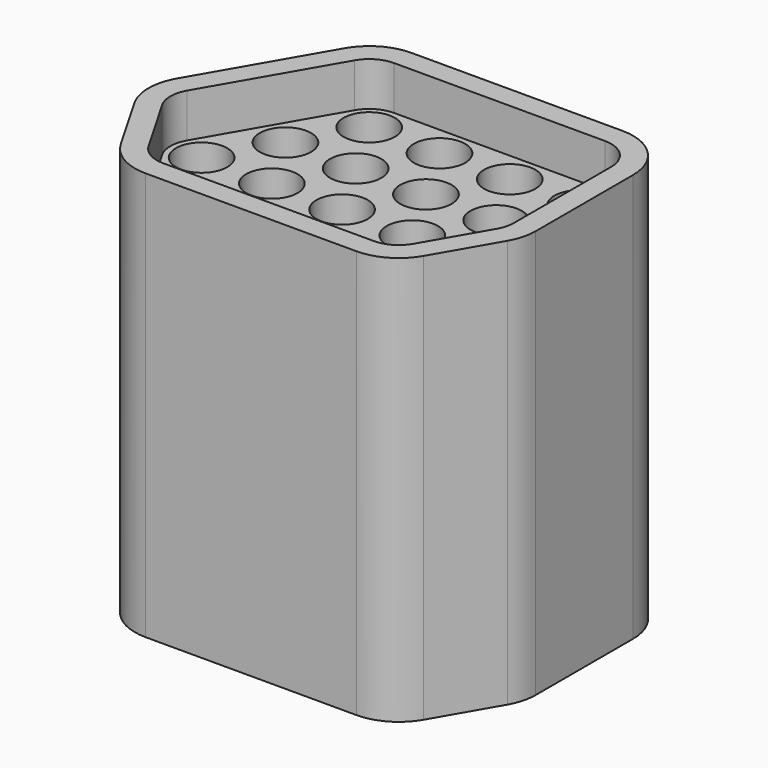
from build123d import *

# Parameters (mm, degrees)
F0_R     = 0.585
F1_DEPTH = 9.3
F2_DEPTH = 1
F3_DEPTH = 8.3
F4_R     = 0.45
F5_DEPTH = 9.301


with BuildPart() as f1:
    # F0 (on Top) → F1 (new body)
    with BuildSketch(Plane.XY):
        with BuildLine():
            Line((0, 1.21), (-4.8, 1.21))
            ThreePointArc((-4.8, 1.21), (-5.405059, 1.047857), (-5.847959, 0.604882))
            Line((-5.847959, 0.604882), (-7.447959, -2.167118))
            ThreePointArc((-7.447959, -2.167118), (-7.61, -2.772), (-7.447959, -3.376882))
            Line((-7.447959, -3.376882), (-6.647959, -4.762882))
            ThreePointArc((-6.647959, -4.762882), (-6.205059, -5.205857), (-5.6, -5.368))
            Line((-5.6, -5.368), (-0.8, -5.368))
            ThreePointArc((-0.8, -5.368), (-0.194941, -5.205857), (0.247959, -4.762882))
            Line((0.247959, -4.762882), (1.047959, -3.376882))
            ThreePointArc((1.047959, -3.376882), (1.168788, -3.085105), (1.21, -2.772))
            Line((1.21, -2.772), (1.21, 0))
            ThreePointArc((1.21, 0), (0.855599, 0.855599), (0, 1.21))
        make_face()
        with BuildLine():
            ThreePointArc((-5.414918, 0.354931), (-5.155035, 0.614858), (-4.8, 0.71))
            Line((-4.8, 0.71), (0, 0.71))
            ThreePointArc((0, 0.71), (0.502046, 0.502046), (0.71, 0))
            Line((0.71, 0), (0.71, -2.772))
            ThreePointArc((0.71, -2.772), (0.685818, -2.955723), (0.614918, -3.126931))
            Line((0.614918, -3.126931), (-0.185082, -4.512931))
            ThreePointArc((-0.185082, -4.512931), (-0.444965, -4.772858), (-0.8, -4.868))
            Line((-0.8, -4.868), (-5.6, -4.868))
            ThreePointArc((-5.6, -4.868), (-5.955035, -4.772858), (-6.214918, -4.512931))
            Line((-6.214918, -4.512931), (-7.014918, -3.126931))
            ThreePointArc((-7.014918, -3.126931), (-7.11, -2.772), (-7.014918, -2.417069))
            Line((-7.014918, -2.417069), (-5.414918, 0.354931))
        make_face(mode=Mode.SUBTRACT)
        with BuildLine():
            Line((0, 0.71), (-4.8, 0.71))
            ThreePointArc((-4.8, 0.71), (-5.155035, 0.614858), (-5.414918, 0.354931))
            Line((-5.414918, 0.354931), (-7.014918, -2.417069))
            ThreePointArc((-7.014918, -2.417069), (-7.11, -2.772), (-7.014918, -3.126931))
            Line((-7.014918, -3.126931), (-6.214918, -4.512931))
            ThreePointArc((-6.214918, -4.512931), (-5.955035, -4.772858), (-5.6, -4.868))
            Line((-5.6, -4.868), (-0.8, -4.868))
            ThreePointArc((-0.8, -4.868), (-0.444965, -4.772858), (-0.185082, -4.512931))
            Line((-0.185082, -4.512931), (0.614918, -3.126931))
            ThreePointArc((0.614918, -3.126931), (0.685818, -2.955723), (0.71, -2.772))
            Line((0.71, -2.772), (0.71, 0))
            ThreePointArc((0.71, 0), (0.502046, 0.502046), (0, 0.71))
        make_face()
        with Locations((-5.6, -4.158)):
            Circle(F0_R, mode=Mode.SUBTRACT)
        with Locations((-4, -4.158)):
            Circle(F0_R, mode=Mode.SUBTRACT)
        with Locations((-6.4, -2.772)):
            Circle(F0_R, mode=Mode.SUBTRACT)
        with Locations((-4.8, -2.772)):
            Circle(F0_R, mode=Mode.SUBTRACT)
        with Locations((-2.4, -4.158)):
            Circle(F0_R, mode=Mode.SUBTRACT)
        with Locations((-0.8, -4.158)):
            Circle(F0_R, mode=Mode.SUBTRACT)
        with Locations((-3.2, -2.772)):
            Circle(F0_R, mode=Mode.SUBTRACT)
        with Locations((-1.6, -2.772)):
            Circle(F0_R, mode=Mode.SUBTRACT)
        with Locations((0, -2.772)):
            Circle(F0_R, mode=Mode.SUBTRACT)
        with Locations((-5.6, -1.386)):
            Circle(F0_R, mode=Mode.SUBTRACT)
        with Locations((-4, -1.386)):
            Circle(F0_R, mode=Mode.SUBTRACT)
        with Locations((-4.8, 0)):
            Circle(F0_R, mode=Mode.SUBTRACT)
        with Locations((-2.4, -1.386)):
            Circle(F0_R, mode=Mode.SUBTRACT)
        with Locations((-0.8, -1.386)):
            Circle(F0_R, mode=Mode.SUBTRACT)
        with Locations((-3.2, 0)):
            Circle(F0_R, mode=Mode.SUBTRACT)
        with Locations((-1.6, 0)):
            Circle(F0_R, mode=Mode.SUBTRACT)
        Circle(F0_R, mode=Mode.SUBTRACT)
        with Locations((-0.8, -4.158)):
            Circle(F0_R)
        with Locations((0, -2.772)):
            Circle(F0_R)
        with Locations((-0.8, -1.386)):
            Circle(F0_R)
        Circle(F0_R)
        with Locations((-1.6, 0)):
            Circle(F0_R)
        with Locations((-3.2, 0)):
            Circle(F0_R)
        with Locations((-4.8, 0)):
            Circle(F0_R)
        with Locations((-5.6, -1.386)):
            Circle(F0_R)
        with Locations((-4, -1.386)):
            Circle(F0_R)
        with Locations((-2.4, -1.386)):
            Circle(F0_R)
        with Locations((-1.6, -2.772)):
            Circle(F0_R)
        with Locations((-3.2, -2.772)):
            Circle(F0_R)
        with Locations((-6.4, -2.772)):
            Circle(F0_R)
        with Locations((-5.6, -4.158)):
            Circle(F0_R)
        with Locations((-4, -4.158)):
            Circle(F0_R)
        with Locations((-2.4, -4.158)):
            Circle(F0_R)
        with Locations((-4.8, -2.772)):
            Circle(F0_R)
    extrude(amount=-F1_DEPTH)

    # F0 (on Top) → F2 (cut)
    with BuildSketch(Plane.XY):
        with BuildLine():
            Line((0, 0.71), (-4.8, 0.71))
            ThreePointArc((-4.8, 0.71), (-5.155035, 0.614858), (-5.414918, 0.354931))
            Line((-5.414918, 0.354931), (-7.014918, -2.417069))
            ThreePointArc((-7.014918, -2.417069), (-7.11, -2.772), (-7.014918, -3.126931))
            Line((-7.014918, -3.126931), (-6.214918, -4.512931))
            ThreePointArc((-6.214918, -4.512931), (-5.955035, -4.772858), (-5.6, -4.868))
            Line((-5.6, -4.868), (-0.8, -4.868))
            ThreePointArc((-0.8, -4.868), (-0.444965, -4.772858), (-0.185082, -4.512931))
            Line((-0.185082, -4.512931), (0.614918, -3.126931))
            ThreePointArc((0.614918, -3.126931), (0.685818, -2.955723), (0.71, -2.772))
            Line((0.71, -2.772), (0.71, 0))
            ThreePointArc((0.71, 0), (0.502046, 0.502046), (0, 0.71))
        make_face()
        with Locations((-5.6, -4.158)):
            Circle(F0_R, mode=Mode.SUBTRACT)
        with Locations((-4, -4.158)):
            Circle(F0_R, mode=Mode.SUBTRACT)
        with Locations((-6.4, -2.772)):
            Circle(F0_R, mode=Mode.SUBTRACT)
        with Locations((-4.8, -2.772)):
            Circle(F0_R, mode=Mode.SUBTRACT)
        with Locations((-2.4, -4.158)):
            Circle(F0_R, mode=Mode.SUBTRACT)
        with Locations((-0.8, -4.158)):
            Circle(F0_R, mode=Mode.SUBTRACT)
        with Locations((-3.2, -2.772)):
            Circle(F0_R, mode=Mode.SUBTRACT)
        with Locations((-1.6, -2.772)):
            Circle(F0_R, mode=Mode.SUBTRACT)
        with Locations((0, -2.772)):
            Circle(F0_R, mode=Mode.SUBTRACT)
        with Locations((-5.6, -1.386)):
            Circle(F0_R, mode=Mode.SUBTRACT)
        with Locations((-4, -1.386)):
            Circle(F0_R, mode=Mode.SUBTRACT)
        with Locations((-4.8, 0)):
            Circle(F0_R, mode=Mode.SUBTRACT)
        with Locations((-2.4, -1.386)):
            Circle(F0_R, mode=Mode.SUBTRACT)
        with Locations((-0.8, -1.386)):
            Circle(F0_R, mode=Mode.SUBTRACT)
        with Locations((-3.2, 0)):
            Circle(F0_R, mode=Mode.SUBTRACT)
        with Locations((-1.6, 0)):
            Circle(F0_R, mode=Mode.SUBTRACT)
        Circle(F0_R, mode=Mode.SUBTRACT)
        with Locations((-4.8, 0)):
            Circle(F0_R)
        with Locations((-5.6, -1.386)):
            Circle(F0_R)
        with Locations((-6.4, -2.772)):
            Circle(F0_R)
        with Locations((-5.6, -4.158)):
            Circle(F0_R)
        with Locations((-4.8, -2.772)):
            Circle(F0_R)
        with Locations((-4, -4.158)):
            Circle(F0_R)
        with Locations((-4, -1.386)):
            Circle(F0_R)
        with Locations((-3.2, 0)):
            Circle(F0_R)
        with Locations((-1.6, 0)):
            Circle(F0_R)
        with Locations((-2.4, -1.386)):
            Circle(F0_R)
        with Locations((-3.2, -2.772)):
            Circle(F0_R)
        with Locations((-2.4, -4.158)):
            Circle(F0_R)
        Circle(F0_R)
        with Locations((-0.8, -1.386)):
            Circle(F0_R)
        with Locations((-1.6, -2.772)):
            Circle(F0_R)
        with Locations((-0.8, -4.158)):
            Circle(F0_R)
        with Locations((0, -2.772)):
            Circle(F0_R)
    extrude(amount=-F2_DEPTH, mode=Mode.SUBTRACT)

    # F0 (on Top) → F3 (cut)
    with BuildSketch(Plane.XY):
        with Locations((-6.4, -2.772)):
            Circle(F0_R)
        with Locations((-5.6, -1.386)):
            Circle(F0_R)
        with Locations((-4.8, 0)):
            Circle(F0_R)
        with Locations((-5.6, -4.158)):
            Circle(F0_R)
        with Locations((-4.8, -2.772)):
            Circle(F0_R)
        with Locations((-4, -1.386)):
            Circle(F0_R)
        with Locations((-3.2, 0)):
            Circle(F0_R)
        with Locations((-1.6, 0)):
            Circle(F0_R)
        with Locations((-2.4, -1.386)):
            Circle(F0_R)
        with Locations((-3.2, -2.772)):
            Circle(F0_R)
        with Locations((-4, -4.158)):
            Circle(F0_R)
        with Locations((-2.4, -4.158)):
            Circle(F0_R)
        with Locations((-1.6, -2.772)):
            Circle(F0_R)
        with Locations((-0.8, -1.386)):
            Circle(F0_R)
        Circle(F0_R)
        with Locations((0, -2.772)):
            Circle(F0_R)
        with Locations((-0.8, -4.158)):
            Circle(F0_R)
        with Locations((-0.8, -4.158)):
            Circle(F0_R)
        with Locations((-4, -4.158)):
            Circle(F0_R)
        with Locations((-2.4, -4.158)):
            Circle(F0_R)
        with Locations((-1.6, -2.772)):
            Circle(F0_R)
        with Locations((-0.8, -1.386)):
            Circle(F0_R)
        Circle(F0_R)
        with Locations((0, -2.772)):
            Circle(F0_R)
        with Locations((-0.8, -4.158)):
            Circle(F0_R)
    extrude(amount=-F3_DEPTH, mode=Mode.SUBTRACT)

    # F4 (on Top) → F5 (cut, through all)
    with BuildSketch(Plane.XY):
        with Locations((-4.8, 0)):
            Circle(F4_R)
        with Locations((-3.2, 0)):
            Circle(F4_R)
        with Locations((-1.6, 0)):
            Circle(F4_R)
        Circle(F4_R)
        with Locations((-0.8, -1.386)):
            Circle(F4_R)
        with Locations((-2.4, -1.386)):
            Circle(F4_R)
        with Locations((-4, -1.386)):
            Circle(F4_R)
        with Locations((-5.6, -1.386)):
            Circle(F4_R)
        with Locations((-6.4, -2.772)):
            Circle(F4_R)
        with Locations((-4.8, -2.772)):
            Circle(F4_R)
        with Locations((-3.2, -2.772)):
            Circle(F4_R)
        with Locations((-1.6, -2.772)):
            Circle(F4_R)
        with Locations((0, -2.772)):
            Circle(F4_R)
        with Locations((-0.8, -4.158)):
            Circle(F4_R)
        with Locations((-2.4, -4.158)):
            Circle(F4_R)
        with Locations((-4, -4.158)):
            Circle(F4_R)
        with Locations((-5.6, -4.158)):
            Circle(F4_R)
    extrude(amount=-F5_DEPTH, mode=Mode.SUBTRACT)


solid = f1.part
